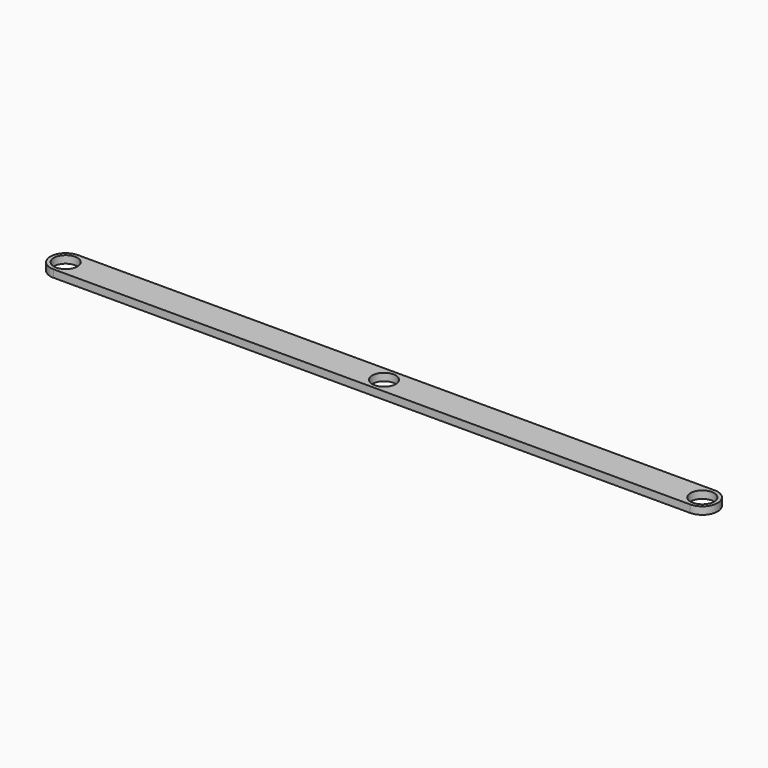
from build123d import *

# Parameters (mm, degrees)
F0_R     = 5
F1_DEPTH = 3.175


with BuildPart() as f1:
    # F0 (on Top) → F1 (new body)
    with BuildSketch(Plane.XY):
        with BuildLine():
            Line((-80.835, 25.067168), (-148.335, 25.067168))
            ThreePointArc((-148.335, 25.067168), (-154.835, 18.567168), (-148.335, 12.067168))
            Line((-148.335, 12.067168), (-80.835, 12.067168))
            Line((-80.835, 12.067168), (-13.335, 12.067168))
            Line((-13.335, 12.067168), (54.165, 12.067168))
            Line((54.165, 12.067168), (121.665, 12.067168))
            ThreePointArc((121.665, 12.067168), (128.165, 18.567168), (121.665, 25.067168))
            Line((121.665, 25.067168), (54.165, 25.067168))
            Line((54.165, 25.067168), (-13.335, 25.067168))
            Line((-13.335, 25.067168), (-80.835, 25.067168))
        make_face()
        with Locations((-148.335, 18.567168)):
            Circle(F0_R, mode=Mode.SUBTRACT)
        with Locations((-13.335, 18.567168)):
            Circle(F0_R, mode=Mode.SUBTRACT)
        with Locations((121.665, 18.567168)):
            Circle(F0_R, mode=Mode.SUBTRACT)
        with BuildLine():
            Line((-80.835, 25.067168), (-148.335, 25.067168))
            ThreePointArc((-148.335, 25.067168), (-154.835, 18.567168), (-148.335, 12.067168))
            Line((-148.335, 12.067168), (-80.835, 12.067168))
            Line((-80.835, 12.067168), (-13.335, 12.067168))
            Line((-13.335, 12.067168), (54.165, 12.067168))
            Line((54.165, 12.067168), (121.665, 12.067168))
            ThreePointArc((121.665, 12.067168), (128.165, 18.567168), (121.665, 25.067168))
            Line((121.665, 25.067168), (54.165, 25.067168))
            Line((54.165, 25.067168), (-13.335, 25.067168))
            Line((-13.335, 25.067168), (-80.835, 25.067168))
        make_face()
        with Locations((-148.335, 18.567168)):
            Circle(F0_R, mode=Mode.SUBTRACT)
        with Locations((-13.335, 18.567168)):
            Circle(F0_R, mode=Mode.SUBTRACT)
        with Locations((121.665, 18.567168)):
            Circle(F0_R, mode=Mode.SUBTRACT)
    extrude(amount=F1_DEPTH)


solid = f1.part
